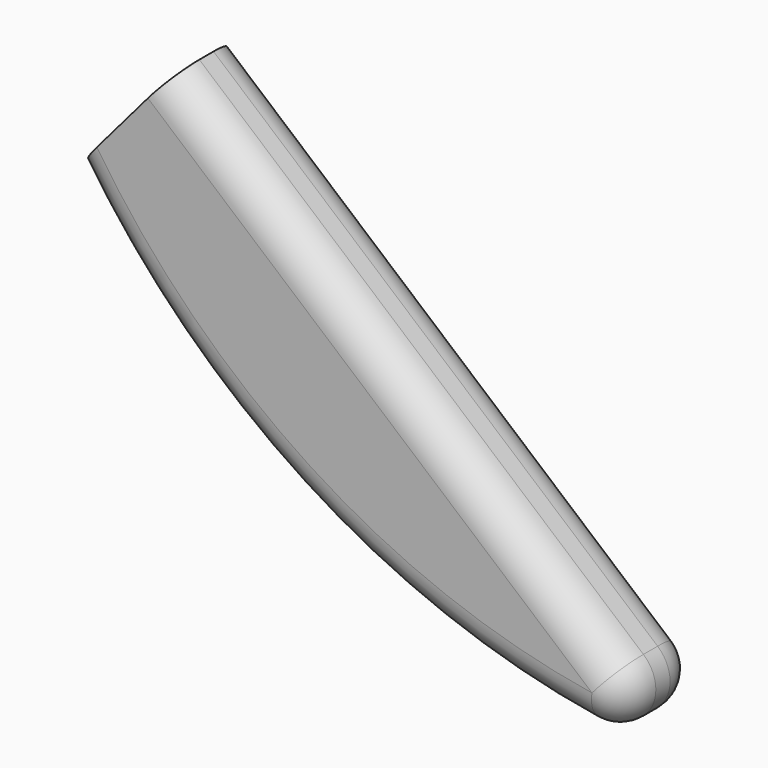
from build123d import *

# Parameters (mm, degrees)
F1_DEPTH = 12.7
F2_R     = 5.08


with BuildPart() as f1:
    # F0 (on Front) → F1 (new body)
    with BuildSketch(Plane.XZ):
        with BuildLine():
            Line((41.533772, -27.615542), (-34.022339, 36.894355))
            Line((-34.022339, 36.894355), (-48.056881, 20.456638))
            ThreePointArc((-48.056881, 20.456638), (-9.177549, -14.60491), (41.533772, -27.615542))
        make_face()
    extrude(amount=F1_DEPTH)

    # F2
    f2_edges = [f1.edges().sort_by_distance(p)[0] for p in [
        (3.755717, -12.7, 4.639407),
        (-9.177549, -12.7, -14.60491),
        (-9.177549, 0, -14.60491),
        (3.755717, 0, 4.639407),
        (41.533772, -6.35, -27.615542),
    ]]
    fillet(f2_edges, radius=F2_R)


solid = f1.part
